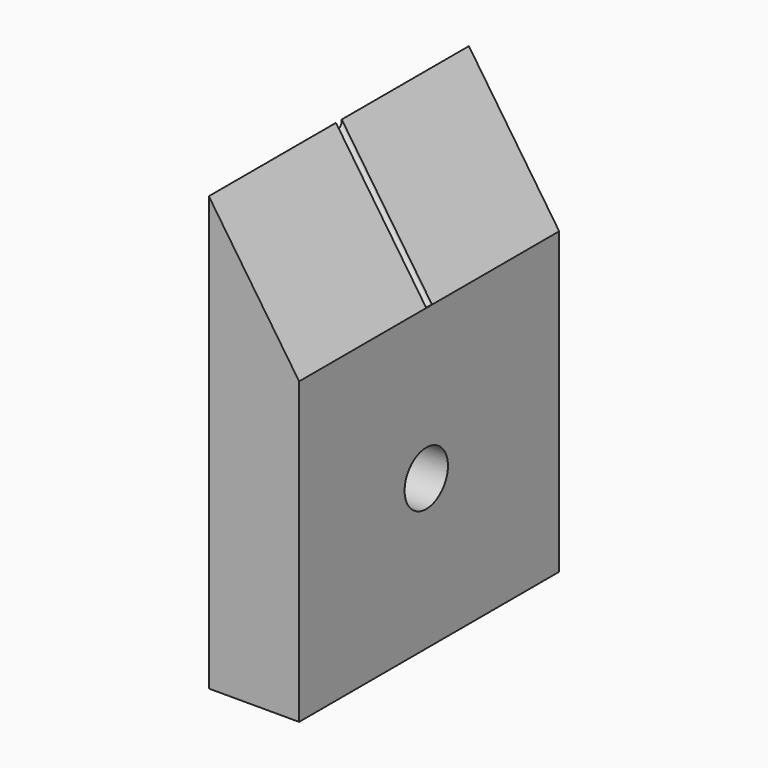
from build123d import *

# Parameters (mm, degrees)
F1_DEPTH = 9
F2_W     = 0.1
F2_H     = 4.4654227124
F4_R     = 0.75
F5_DEPTH = 2.501


with BuildPart() as f1:
    # F0 (on Front) → F1 (new body)
    with BuildSketch(Plane.XZ):
        Polygon((-1.25, 12), (-1.25, 0), (1.25, 0), (1.25, 8.3), align=None)
    extrude(amount=F1_DEPTH)

    # F2 (on face) → F3 (revolve, cut)
    with BuildSketch(Plane(origin=(4.7085005015, 0, 3.1814192578), x_dir=(0, 1, 0), z_dir=(0.8285889687, 0, 0.5598574113))):
        with Locations((-4.55, 8.4101780322)):
            Rectangle(F2_W, F2_H)
    revolve(axis=Axis((0, -4.5, 10.15), (0.5598574113, 0, -0.8285889687)), mode=Mode.SUBTRACT)

    # F4 (on face) → F5 (cut, through all)
    with BuildSketch(Plane.YZ.offset(1.25)):
        with Locations((-4.6, 4.15)):
            Circle(F4_R)
    extrude(amount=-F5_DEPTH, mode=Mode.SUBTRACT)


solid = f1.part
